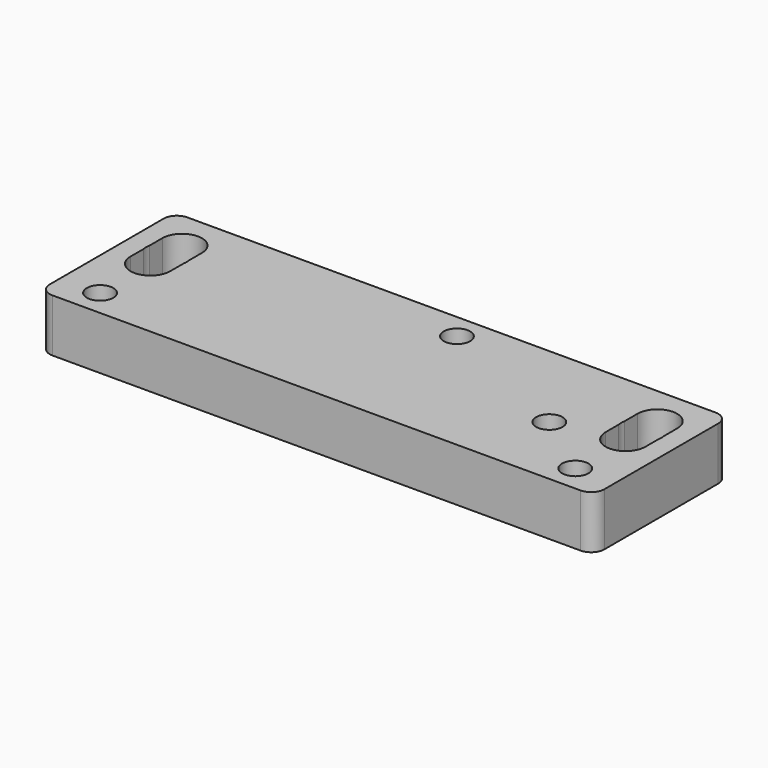
from build123d import *

# Parameters (mm, degrees)
SKETCH_R          = 2
PAD_DEPTH         = 8
SKETCH001_R       = 3.05
POCKET_DEPTH      = 0.001
POCKET_DEPTH_BACK = 8.001


with BuildPart() as part:
    # Sketch → Pad (new body)
    with BuildSketch(Plane.XY):
        with BuildLine():
            Line((-54.9, 9), (24.9, 9))
            ThreePointArc((26.9, 7), (26.314214, 8.414214), (24.9, 9))
            Line((26.9, 7), (26.9, -14.5))
            ThreePointArc((24.9, -16.5), (26.314214, -15.914214), (26.9, -14.5))
            Line((-54.9, -16.5), (24.9, -16.5))
            ThreePointArc((-56.9, -14.5), (-56.314214, -15.914214), (-54.9, -16.5))
            Line((-56.9, 7), (-56.9, -14.5))
            ThreePointArc((-54.9, 9), (-56.314214, 8.414214), (-56.9, 7))
        make_face()
        with Locations((-11.1, 5.15)):
            Circle(SKETCH_R, mode=Mode.SUBTRACT)
        with Locations((11.1, -5.15)):
            Circle(SKETCH_R, mode=Mode.SUBTRACT)
        with Locations((-50.9, -12.5)):
            Circle(SKETCH_R, mode=Mode.SUBTRACT)
        with Locations((20.9, -12.5)):
            Circle(SKETCH_R, mode=Mode.SUBTRACT)
        with BuildLine():
            ThreePointArc((-53.9, -3), (-50.9, -6), (-47.9, -3))
            Line((-47.9, -3), (-47.9, 3))
            ThreePointArc((-47.9, 3), (-50.9, 6), (-53.9, 3))
            Line((-53.9, -3), (-53.9, 3))
        make_face(mode=Mode.SUBTRACT)
        with BuildLine():
            ThreePointArc((17.9, -3), (20.9, -6), (23.9, -3))
            Line((23.9, -3), (23.9, 3))
            ThreePointArc((23.9, 3), (20.9, 6), (17.9, 3))
            Line((17.9, -3), (17.9, 3))
        make_face(mode=Mode.SUBTRACT)
    extrude(amount=PAD_DEPTH)

    # Sketch001 → Pocket (cut, two sides)
    with BuildSketch(Plane.XY) as pocket_sk:
        with Locations((-50.9, 0)):
            Circle(SKETCH001_R)
        with Locations((20.9, 0)):
            Circle(SKETCH001_R)
    extrude(amount=-POCKET_DEPTH, mode=Mode.SUBTRACT)
    extrude(pocket_sk.sketch, amount=POCKET_DEPTH_BACK, mode=Mode.SUBTRACT)


solid = part.part
